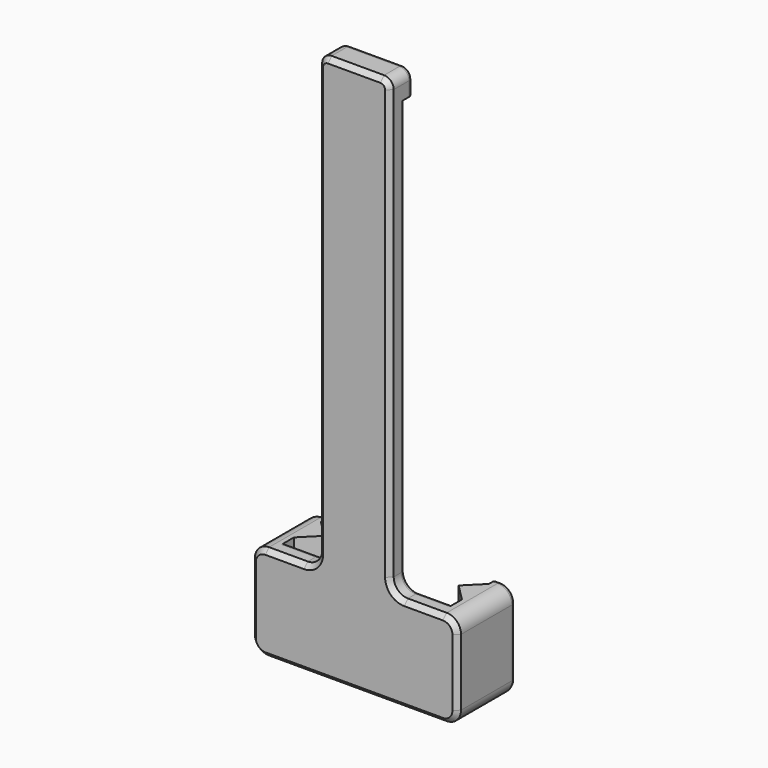
from build123d import *

# Parameters (mm, degrees)
PAD_DEPTH    = 115
POCKET_DEPTH = 15.322068
SKETCH002_W  = 15
SKETCH002_H  = 5
PAD001_DEPTH = 2
FILLET_R     = 3
FILLET001_R  = 2
CHAMFER_SIZE = 1
FILLET002_R  = 1
FILLET003_R  = 1
FILLET004_R  = 1
FILLET005_R  = 1


with BuildPart() as part:
    # Sketch → Pad (new body)
    with BuildSketch(Plane.XY):
        Polygon((-17.625, 0), (17.625, 0), (17.625, 2.25), (14.089466, 5.785534), (17.625, 9.321068), (17.625, 11.321068), (21.625, 11.321068), (21.625, -4), (-21.625, -4), (-21.625, 11.321068), (-17.625, 11.321068), (-17.625, 9.321068), (-14.089466, 5.785534), (-17.625, 2.25), align=None)
    extrude(amount=PAD_DEPTH)

    # Sketch001 (on Face8 of Pad) → Pocket (cut, through all)
    with BuildSketch(Plane.XZ.offset(4)):
        Polygon((7.5, 130), (7.5, 20), (48.935, 20), (48.935, 139.08), (-48.935, 139.08), (-48.935, 20), (-7.5, 20), (-7.5, 130), align=None)
    extrude(amount=-POCKET_DEPTH, mode=Mode.SUBTRACT)

    # Sketch002 (on Face1 of Pocket) → Pad001 (join)
    with BuildSketch(Plane(origin=(0, 0, 0), x_dir=(-1, 0, 0), z_dir=(0, 1, 0))):
        with Locations((0, 112.5)):
            Rectangle(SKETCH002_W, SKETCH002_H)
    extrude(amount=PAD001_DEPTH)

    # Fillet
    fillet_edges = [part.edges().sort_by_distance(p)[0] for p in [
        (21.625, 3.660534, 20),
        (21.625, 3.660534, 0),
        (-21.625, 3.660534, 0),
        (-21.625, 3.660534, 20),
        (-7.5, -2, 20),
        (7.5, -2, 20),
    ]]
    fillet(fillet_edges, radius=FILLET_R)

    # Fillet001
    fillet001_edges = [part.edges().sort_by_distance(p)[0] for p in [
        (-7.5, -2, 115),
        (7.5, -2, 115),
    ]]
    fillet(fillet001_edges, radius=FILLET001_R)

    # Chamfer
    chamfer_edges = [part.edges().sort_by_distance(p)[0] for p in [
        (7.5, -4, 68),
        (6.914214, -4, 114.414214),
        (8.37868, -4, 20.87868),
        (0, -4, 115),
        (14.5625, -4, 20),
        (-6.914214, -4, 114.414214),
        (20.74632, -4, 19.12132),
        (-7.5, -4, 68),
        (21.625, -4, 10),
        (-8.37868, -4, 20.87868),
        (20.74632, -4, 0.87868),
        (-14.5625, -4, 20),
        (0, -4, 0),
        (-20.74632, -4, 19.12132),
        (-20.74632, -4, 0.87868),
        (-21.625, -4, 10),
    ]]
    chamfer(chamfer_edges, length=CHAMFER_SIZE)

    # Fillet002
    fillet002_edges = [part.edges().sort_by_distance(p)[0] for p in [
        (0, 2, 115),
    ]]
    fillet(fillet002_edges, radius=FILLET002_R)

    # Fillet003
    fillet003_edges = [part.edges().sort_by_distance(p)[0] for p in [
        (-18.125, 11.321068, 0),
        (-20.74632, 11.321068, 0.87868),
        (-17.625, 11.321068, 10),
        (-21.625, 11.321068, 10),
        (-18.125, 11.321068, 20),
        (-20.74632, 11.321068, 19.12132),
        (18.125, 11.321068, 0),
        (20.74632, 11.321068, 0.87868),
        (17.625, 11.321068, 10),
        (21.625, 11.321068, 10),
        (18.125, 11.321068, 20),
        (20.74632, 11.321068, 19.12132),
    ]]
    fillet(fillet003_edges, radius=FILLET003_R)

    # Fillet004
    fillet004_edges = [part.edges().sort_by_distance(p)[0] for p in [
        (-7.5, 0, 66.5),
    ]]
    fillet(fillet004_edges, radius=FILLET004_R)

    # Fillet005
    fillet005_edges = [part.edges().sort_by_distance(p)[0] for p in [
        (7.5, 0, 66.5),
    ]]
    fillet(fillet005_edges, radius=FILLET005_R)


solid = part.part
